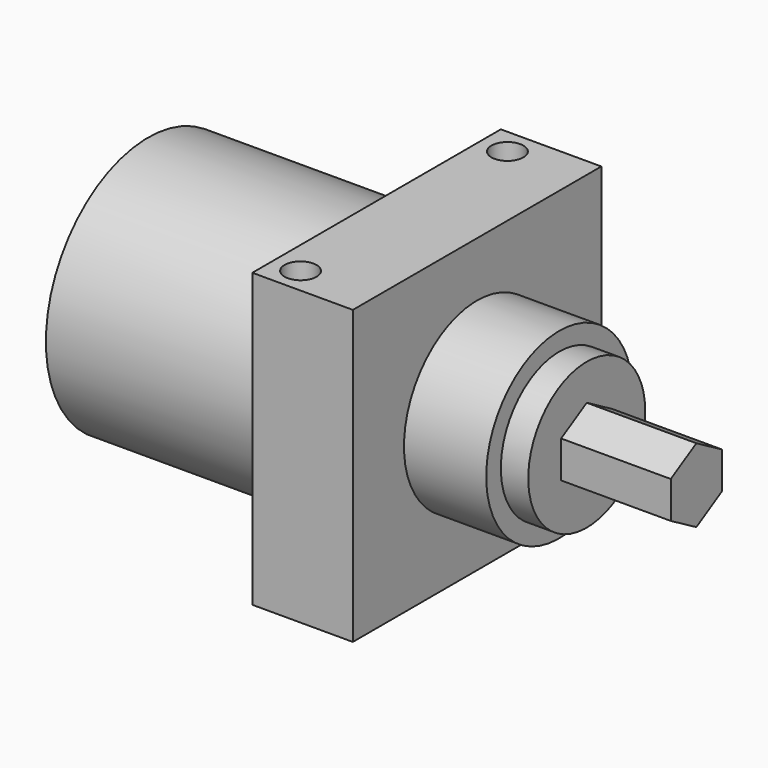
from build123d import *

# Parameters (mm, degrees)
SKETCH_R     = 14
PAD_DEPTH    = 25
SKETCH001_W  = 34
SKETCH001_H  = 32
PAD001_DEPTH = 11
SKETCH002_R  = 10
PAD002_DEPTH = 9
SKETCH003_R  = 8
PAD003_DEPTH = 3
PAD004_DEPTH = 12
SKETCH005_R  = 1.75
POCKET_DEPTH = 100


with BuildPart() as part:
    # Sketch → Pad (new body)
    with BuildSketch(Plane.YZ):
        Circle(SKETCH_R)
    extrude(amount=-PAD_DEPTH)

    # Sketch001 (on Face2 of Pad) → Pad001 (join)
    with BuildSketch(Plane.YZ):
        Rectangle(SKETCH001_W, SKETCH001_H)
    extrude(amount=PAD001_DEPTH)

    # Sketch002 (on Face5 of Pad001) → Pad002 (join)
    with BuildSketch(Plane.YZ.offset(11)):
        Circle(SKETCH002_R)
    extrude(amount=PAD002_DEPTH)

    # Sketch003 (on Face10 of Pad002) → Pad003 (join)
    with BuildSketch(Plane.YZ.offset(20)):
        Circle(SKETCH003_R)
    extrude(amount=PAD003_DEPTH)

    # Sketch004 (on Face12 of Pad003) → Pad004 (join)
    with BuildSketch(Plane.YZ.offset(23)):
        Polygon((0, 4.041452), (-3.5, 2.020726), (-3.5, -2.020726), (0, -4.041452), (3.5, -2.020726), (3.5, 2.020726), align=None)
    extrude(amount=PAD004_DEPTH)

    # Sketch005 (on Face1 of Pad004) → Pocket (cut)
    with BuildSketch(Plane(origin=(0, 0, 16), x_dir=(0, -1, 0), z_dir=(0, 0, 1))):
        with Locations((-14.15, 3)):
            Circle(SKETCH005_R)
        with Locations((14.15, 3)):
            Circle(SKETCH005_R)
    extrude(amount=-POCKET_DEPTH, mode=Mode.SUBTRACT)


solid = part.part
